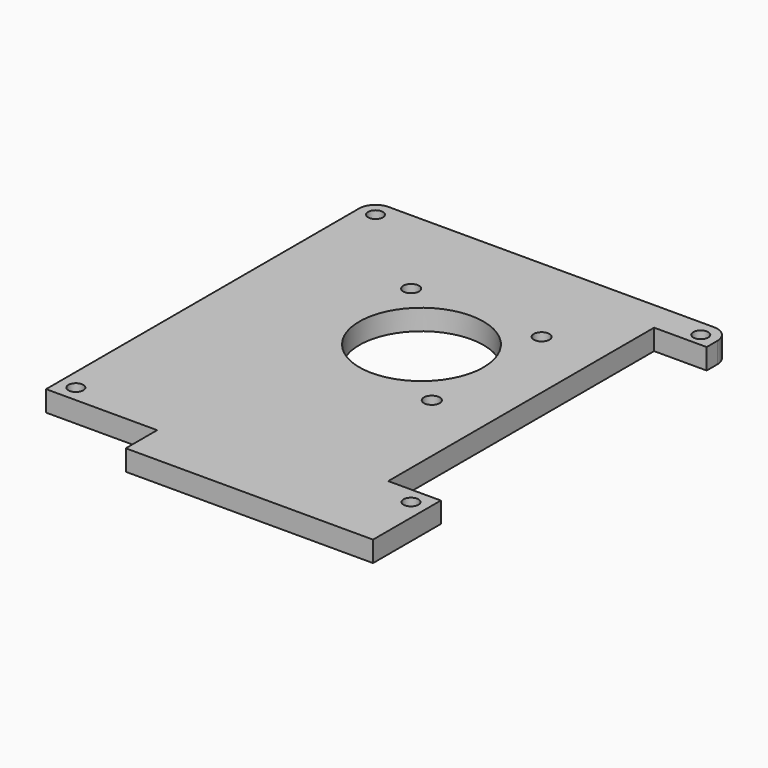
from build123d import *

# Parameters (mm, degrees)
F0_R     = 1.143
F0_R_2   = 1.2065
F0_R_3   = 9.525
F1_DEPTH = 3.175


with BuildPart() as f1:
    # F0 (on Top) → F1 (new body)
    with BuildSketch(Plane.XY):
        with BuildLine():
            Line((52.451, 0), (2.54, 0))
            ThreePointArc((2.54, 0), (0.743949, -0.743949), (0, -2.54))
            Line((0, -2.54), (0, -62.559217))
            Line((0, -62.559217), (17.044382, -62.559217))
            Line((17.044382, -62.559217), (17.044382, -68.58))
            Line((17.044382, -68.58), (54.991, -68.58))
            Line((54.991, -68.58), (54.991, -55.58028))
            Line((54.991, -55.58028), (46.9265, -55.58028))
            Line((46.9265, -55.58028), (46.9265, -4.582543))
            Line((46.9265, -4.582543), (54.991, -4.582543))
            Line((54.991, -4.582543), (54.991, -2.54))
            ThreePointArc((54.991, -2.54), (54.247051, -0.743949), (52.451, 0))
        make_face()
        with Locations((2.54, -60.019217)):
            Circle(F0_R, mode=Mode.SUBTRACT)
        with Locations((52.451, -58.12028)):
            Circle(F0_R, mode=Mode.SUBTRACT)
        with Locations((37.8968, -35.93797)):
            Circle(F0_R_2, mode=Mode.SUBTRACT)
        with Locations((2.54, -2.54)):
            Circle(F0_R, mode=Mode.SUBTRACT)
        with Locations((17.860312, -14.858122)):
            Circle(F0_R_2, mode=Mode.SUBTRACT)
        with Locations((27.8765, -25.4)):
            Circle(F0_R_3, mode=Mode.SUBTRACT)
        with Locations((37.892688, -14.858122)):
            Circle(F0_R_2, mode=Mode.SUBTRACT)
        with Locations((52.451, -2.54)):
            Circle(F0_R, mode=Mode.SUBTRACT)
    extrude(amount=F1_DEPTH)


solid = f1.part
